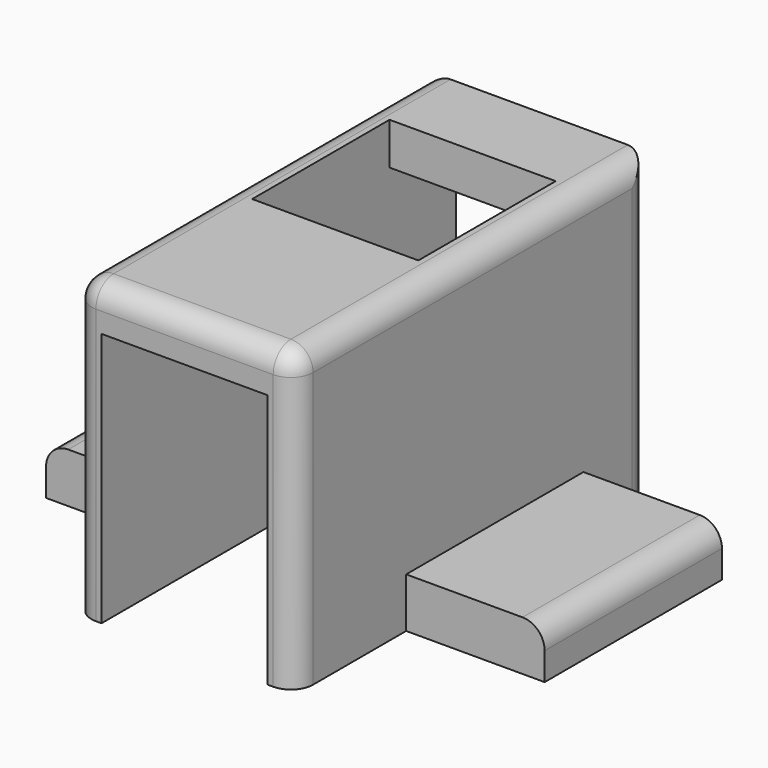
from build123d import *

# Parameters (mm, degrees)
F0_W     = 50.8
F0_H     = 101.6
F0_W_2   = 38.1
F0_H_2   = 12.7
F0_H_3   = 36.83
F1_DEPTH = 9.652
F2_W     = 50.8
F2_H     = 101.6
F3_DEPTH = 58.42
F4_W     = 31.75
F4_H     = 50.8
F5_DEPTH = 11.43
F6_R     = 5.08
F7_W     = 38.1
F7_H     = 58.42
F8_DEPTH = 101.601
F9_R     = 5.08


with BuildPart() as f1:
    # F0 (on Top) → F1 (new body)
    with BuildSketch(Plane.XY):
        with Locations((19.05, 44.45)):
            Rectangle(F0_W, F0_H)
        Polygon((38.1, 0), (0, 0), (0, 36.83), (0, 76.2), (0, 88.9), (38.1, 88.9), (38.1, 76.2), (38.1, 36.83), align=None, mode=Mode.SUBTRACT)
        with Locations((19.05, 82.55)):
            Rectangle(F0_W_2, F0_H_2)
        with Locations((19.05, 18.415)):
            Rectangle(F0_W_2, F0_H_3)
    extrude(amount=-F1_DEPTH)

    # F2 (on face) → F3 (join)
    with BuildSketch(Plane(origin=(0, 0, -9.652), x_dir=(1, 0, 0), z_dir=(0, 0, -1))):
        with Locations((19.05, -44.45)):
            Rectangle(F2_W, F2_H)
        Polygon((0, -36.83), (0, 0), (38.1, 0), (38.1, -36.83), (38.1, -76.2), (38.1, -88.9), (0, -88.9), (0, -76.2), align=None, mode=Mode.SUBTRACT)
    extrude(amount=F3_DEPTH)

    # F4 (on face) → F5 (join)
    with BuildSketch(Plane(origin=(0, 0, -68.072), x_dir=(1, 0, 0), z_dir=(0, 0, -1))):
        with Locations((60.325, -50.8)):
            Rectangle(F4_W, F4_H)
        with Locations((-22.225, -50.8)):
            Rectangle(F4_W, F4_H)
    extrude(amount=-F5_DEPTH)

    # F6
    f6_edges = [f1.edges().sort_by_distance(p)[0] for p in [
        (-38.1, 50.8, -56.642),
        (76.2, 50.8, -56.642),
    ]]
    fillet(f6_edges, radius=F6_R)

    # F7 (on face) → F8 (cut, through all)
    with BuildSketch(Plane.XZ.offset(6.35)):
        with Locations((19.05, -38.862)):
            Rectangle(F7_W, F7_H)
    extrude(amount=-F8_DEPTH, mode=Mode.SUBTRACT)

    # F9
    f9_edges = [f1.edges().sort_by_distance(p)[0] for p in [
        (19.05, -6.35, 0),
        (44.45, -6.35, -34.036),
        (-6.35, -6.35, -34.036),
        (44.45, 44.45, 0),
        (-6.35, 44.45, 0),
        (44.45, 95.25, -34.036),
        (-6.35, 95.25, -34.036),
    ]]
    fillet(f9_edges, radius=F9_R)


solid = f1.part
